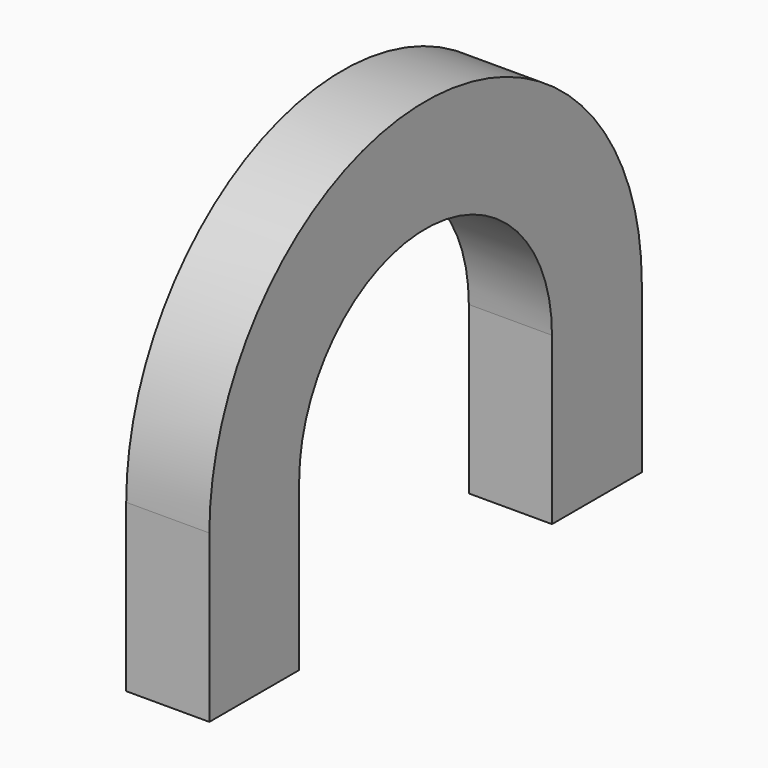
from build123d import *

# Parameters (mm, degrees)
PAD_DEPTH = 10


with BuildPart() as part:
    # Sketch → Pad (new body)
    with BuildSketch(Plane.YZ):
        with BuildLine():
            ThreePointArc((32.5, 0), (0, 32.5), (-32.5, 0))
            Line((-32.5, -20), (-32.5, 0))
            Line((-19, -20), (-32.5, -20))
            Line((-19, -20), (-19, 0))
            ThreePointArc((19, 1e-06), (0, 19), (-19, 0))
            Line((19, 1e-06), (19, -20))
            Line((32.5, -20), (19, -20))
            Line((32.5, 0), (32.5, -20))
        make_face()
    extrude(amount=PAD_DEPTH)


solid = part.part
